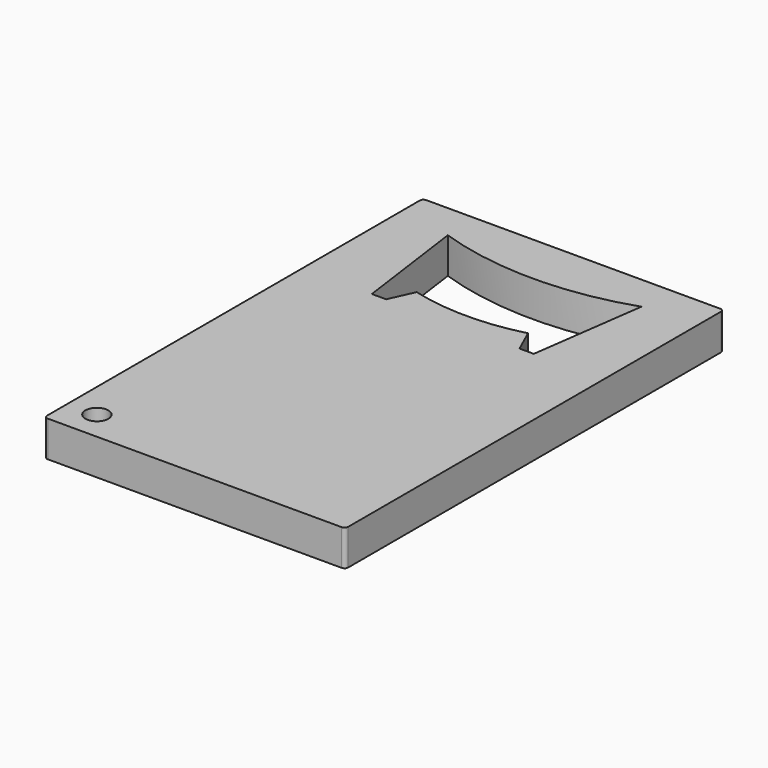
from build123d import *

# Parameters (mm, degrees)
F0_R     = 2.032
F1_DEPTH = 6.35


with BuildPart() as f1:
    # F0 (on Top) → F1 (new body)
    with BuildSketch(Plane.XY):
        with BuildLine():
            Line((52.705, 0), (0.635, 0))
            ThreePointArc((0.635, 0), (0.185987, -0.185987), (0, -0.635))
            Line((0, -0.635), (0, -83.185))
            ThreePointArc((0, -83.185), (0.185987, -83.634013), (0.635, -83.82))
            Line((0.635, -83.82), (52.705, -83.82))
            ThreePointArc((52.705, -83.82), (53.154013, -83.634013), (53.34, -83.185))
            Line((53.34, -83.185), (53.34, -0.635))
            ThreePointArc((53.34, -0.635), (53.154013, -0.185987), (52.705, 0))
        make_face()
        with Locations((5.1816, -78.6384)):
            Circle(F0_R, mode=Mode.SUBTRACT)
        with BuildLine():
            Line((12.319, -26.67), (9.525, -6.35))
            ThreePointArc((9.525, -6.35), (26.67, -9.144), (43.815, -6.35))
            Line((43.815, -6.35), (41.021, -26.67))
            Line((41.021, -26.67), (38.481, -26.67))
            Line((38.481, -26.67), (36.534725, -22.352))
            ThreePointArc((36.534725, -22.352), (26.67, -23.622), (16.805275, -22.352))
            Line((16.805275, -22.352), (14.859, -26.67))
            Line((14.859, -26.67), (12.319, -26.67))
        make_face(mode=Mode.SUBTRACT)
    extrude(amount=F1_DEPTH)


solid = f1.part
